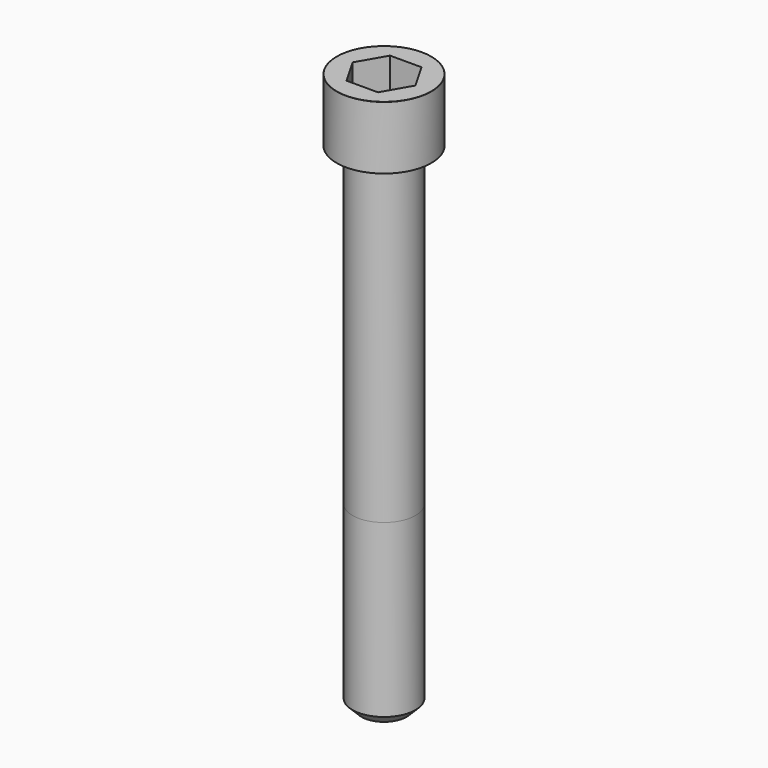
from build123d import *

# Parameters (mm, degrees)
POCKET_DEPTH = 12.07


with BuildPart() as part:
    # Sketch → Revolve (revolve)
    with BuildSketch(Plane.YZ):
        with BuildLine():
            Line((6.999, 0), (10.5, 0))
            Line((10.5, 0), (10.5, 13.97229))
            ThreePointArc((10.5, 13.97229), (10.491884, 13.991884), (10.47229, 14))
            Line((10.47229, 14), (0, 14))
            Line((0, -110), (0, 14))
            Line((5, -110), (0, -110))
            Line((7, -108), (5, -110))
            Line((7, -70), (7, -108))
            Line((6.999, 0), (7, -70))
        make_face()
    revolve(axis=Axis((0, 0, 0), (0, 0, 1)))

    # Sketch001 → Pocket (cut)
    with BuildSketch(Plane.XY.offset(14)):
        Polygon((6.968618, 0), (3.484309, 6.035), (-3.484309, 6.035), (-6.968618, 0), (-3.484309, -6.035), (3.484309, -6.035), align=None)
    extrude(amount=-POCKET_DEPTH, mode=Mode.SUBTRACT)


solid = part.part
